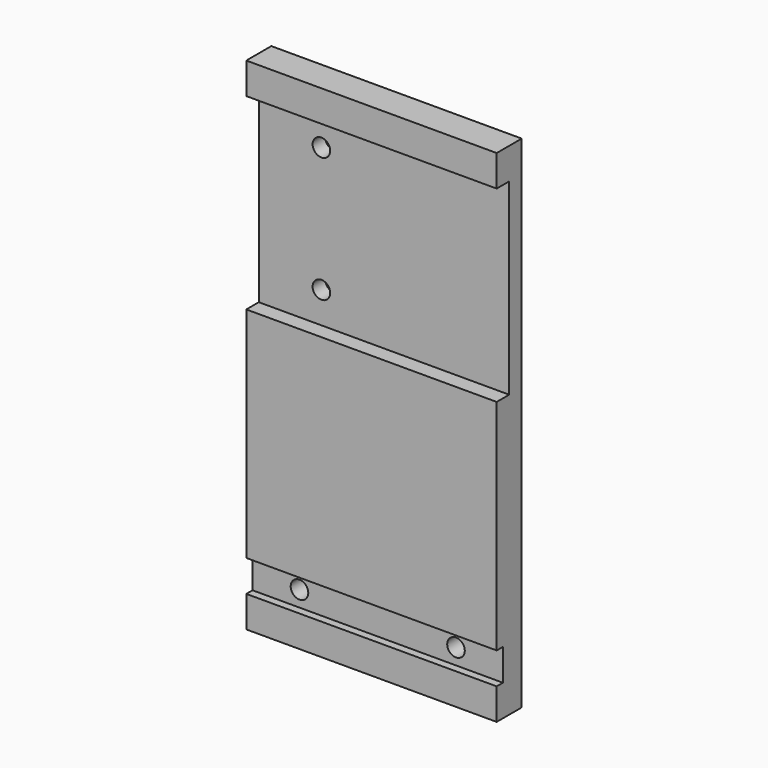
from build123d import *

# Parameters (mm, degrees)
F1_DEPTH = 101.6
F2_R     = 3.5687
F3_DEPTH = 9.525
F4_R     = 3.5687
F5_DEPTH = 6.35


with BuildPart() as f1:
    # F0 (on Right) → F1 (new body)
    with BuildSketch(Plane.YZ):
        Polygon((14.032612, -66.899234), (14.032612, 136.300766), (1.332612, 136.300766), (1.332612, 123.600766), (7.682612, 123.600766), (7.682612, 47.400766), (1.332612, 47.400766), (1.332612, -41.372234), (4.507612, -41.372234), (4.507612, -54.199234), (1.332612, -54.199234), (1.332612, -66.899234), align=None)
    extrude(amount=F1_DEPTH)

    # F2 (on face) → F3 (cut, through all)
    with BuildSketch(Plane.XZ.offset(-4.507612)):
        with Locations((19.05, -47.785734)):
            Circle(F2_R)
        with Locations((82.55, -47.785734)):
            Circle(F2_R)
    extrude(amount=-F3_DEPTH, mode=Mode.SUBTRACT)

    # F4 (on face) → F5 (cut, through all)
    with BuildSketch(Plane.XZ.offset(-7.682612)):
        with Locations((25.4, 110.900766)):
            Circle(F4_R)
        with Locations((25.4, 60.100766)):
            Circle(F4_R)
    extrude(amount=-F5_DEPTH, mode=Mode.SUBTRACT)


solid = f1.part
